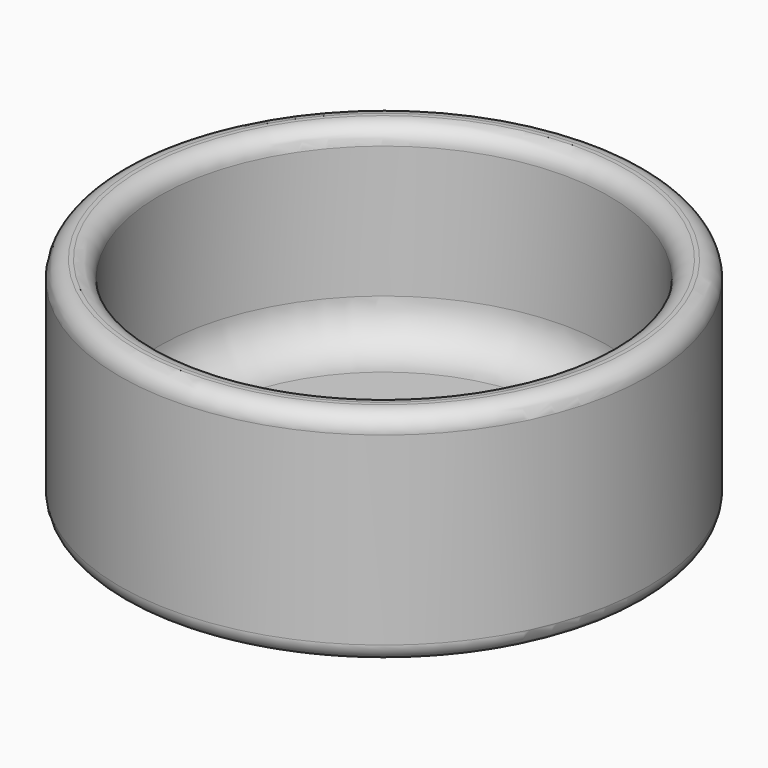
from build123d import *

# Parameters (mm, degrees)
F0_R     = 30
F0_R_2   = 25.55
F1_DEPTH = 3
F2_DEPTH = 25
F3_R     = 5
F4_R     = 2
F0_R_3   = 40
F0_R_4   = 30.5
F5_DEPTH = 27.3
F6_R     = 2


with BuildPart() as f1:
    # F0 (on Top) → F1 (new body)
    with BuildSketch(Plane.XY):
        Circle(F0_R)
        Circle(F0_R_2, mode=Mode.SUBTRACT)
        Circle(F0_R_2)
    extrude(amount=F1_DEPTH)

    # F0 (on Top) → F2 (join)
    with BuildSketch(Plane.XY):
        Circle(F0_R)
        Circle(F0_R_2, mode=Mode.SUBTRACT)
    extrude(amount=F2_DEPTH)

    # F3
    f3_edges = [f1.edges().sort_by_distance(p)[0] for p in [
        (-25.55, 0, 3),
    ]]
    fillet(f3_edges, radius=F3_R)

    # F4
    f4_edges = [f1.edges().sort_by_distance(p)[0] for p in [
        (-25.55, 0, 25),
        (-30, 0, 25),
    ]]
    fillet(f4_edges, radius=F4_R)

    # F0 (on Top) → F5 (cut)
    with BuildSketch(Plane.XY):
        Circle(F0_R_3)
        Circle(F0_R_4, mode=Mode.SUBTRACT)
    extrude(amount=F5_DEPTH, mode=Mode.SUBTRACT)

    # F6
    f6_edges = [f1.edges().sort_by_distance(p)[0] for p in [
        (-30, 0, 0),
    ]]
    fillet(f6_edges, radius=F6_R)


solid = f1.part
